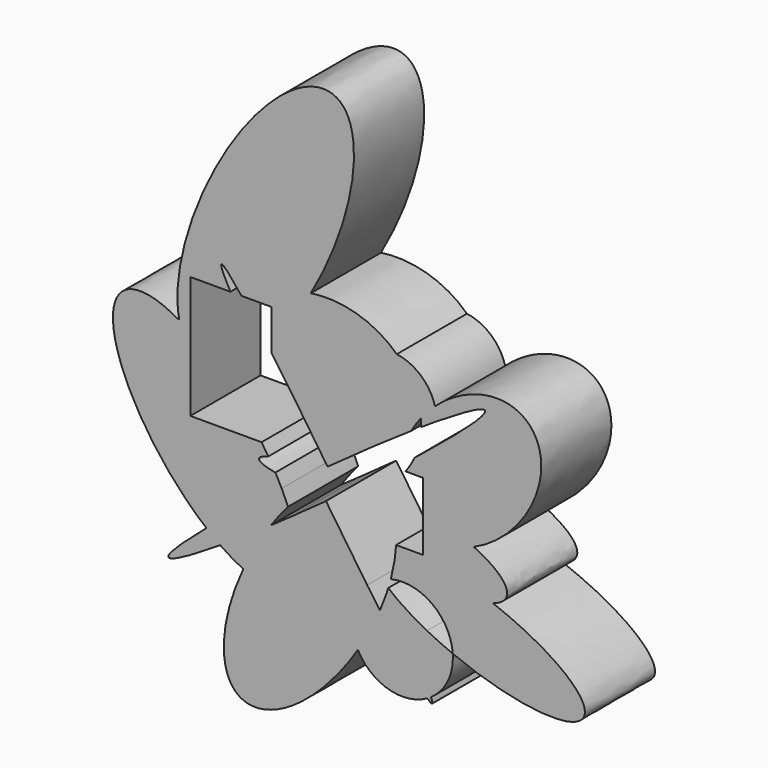
from build123d import *

# Parameters (mm, degrees)
F1_DEPTH = 25.4


with BuildPart() as f1:
    # F0 (on Front) → F1 (new body)
    with BuildSketch(Plane.XZ):
        with BuildLine():
            add(Edge.make_bspline(
                [(45.8203554153, 33.5917845368), (45.0022458665, 34.7077142445), (31.8173356612, 26.2858225604)],
                knots=[0, 0, 0, 0.7594774283, 0.7594774283, 0.7594774283], degree=2, weights=[1, 0.9287615201, 1]))
            add(Edge.make_bspline(
                [(27.3617833259, 16.4981773489), (46.9088457887, 32.1070460372), (45.8203554153, 33.5917845368)],
                knots=[5.3068864394, 5.3068864394, 5.3068864394, 6.2831853072, 6.2831853072, 6.2831853072], degree=2, weights=[1, 0.8832022716, 1]))
            ThreePointArc((27.3617833259, 16.4981773489), (26.7925594138, 16.018335264), (26.1974304469, 15.5710257499))
            add(Edge.make_bspline(
                [(25.4277634221, 14.9609239442), (25.8152568038, 15.2675479355), (26.1974304469, 15.5710257499)],
                knots=[5.2553125297, 5.2553125297, 5.2553125297, 5.2756140881, 5.2756140881, 5.2756140881], degree=2, weights=[1, 0.9999484813, 1]))
            add(Edge.make_bspline(
                [(22.8009598, 10.6078237295), (24.3757593145, 12.6658268523), (25.4277634221, 14.9609239442)],
                knots=[5.6974649671, 5.6974649671, 5.6974649671, 5.9049472791, 5.9049472791, 5.9049472791], degree=2, weights=[1, 0.9946237106, 1]))
            Line((22.8009598, 10.6078237295), (27.9194250515, 10.6078237295))
            Line((27.9194250515, 10.6078237295), (27.9194250515, 2.612153982))
            add(Edge.make_bspline(
                [(42.5681866332, -2.2064455908), (36.1588180882, 0.7967034367), (27.9194250515, 2.612153982)],
                knots=[4.100331974, 4.100331974, 4.100331974, 4.7123889804, 4.7123889804, 4.7123889804], degree=2, weights=[1, 0.9535375956, 1]))
            add(Edge.make_bspline(
                [(42.5681866332, -2.2064455908), (68.5092164722, 9.1113543374), (61.2810738369, 29.8314853108), (54.0529312017, 50.5516162842), (31.3436920597, 29.9695931798)],
                knots=[1.0154255647, 1.0154255647, 1.0154255647, 2.8116832787, 2.8116832787, 4.6079409928, 4.6079409928, 4.6079409928], degree=2, weights=[1, 0.6230745959, 1, 0.6230745959, 1]))
            ThreePointArc((31.3436920597, 29.9695931798), (31.6991014685, 28.2230114612), (31.818281754, 26.4446246621))
            ThreePointArc((31.818281754, 26.4446246621), (31.8180452287, 26.3652222021), (31.8173356612, 26.2858225604))
        make_face()
        with BuildLine():
            add(Edge.make_bspline(
                [(31.8173356612, 26.2858225604), (29.7087674376, 24.9389697635), (27.3591228229, 23.3897458368)],
                knots=[0.7594774283, 0.7594774283, 0.7594774283, 0.88695804, 0.88695804, 0.88695804], degree=2, weights=[1, 0.9979692744, 1]))
            ThreePointArc((31.8173356612, 26.2858225604), (31.8180452287, 26.3652222021), (31.818281754, 26.4446246621))
            ThreePointArc((31.818281754, 26.4446246621), (31.6991014685, 28.2230114612), (31.3436920597, 29.9695931798))
            add(Edge.make_bspline(
                [(31.3436920597, 29.9695931798), (29.127209402, 27.9607325135), (27.2737656718, 25.6216142163)],
                knots=[4.6079409928, 4.6079409928, 4.6079409928, 4.8517722932, 4.8517722932, 4.8517722932], degree=2, weights=[1, 0.9925774876, 1]))
            add(Edge.make_bspline(
                [(27.3591228229, 23.3897458368), (27.3771029612, 24.5074235361), (27.2737656718, 25.6216142163)],
                knots=[6.2692399967, 6.2692399967, 6.2692399967, 6.3634166723, 6.3634166723, 6.3634166723], degree=2, weights=[1, 0.9988915491, 1]))
        make_face()
        with BuildLine():
            add(Edge.make_bspline(
                [(24.4258900399, 21.4396655249), (19.3522999068, 18.0402667084), (13.6287281969, 14.0349532948)],
                knots=[0.9644830532, 0.9644830532, 0.9644830532, 1.2243926585, 1.2243926585, 1.2243926585], degree=2, weights=[1, 0.9915677518, 1]))
            add(Edge.make_bspline(
                [(27.2737656718, 25.6216142163), (25.6764436724, 23.6057315356), (24.4258900399, 21.4396655249)],
                knots=[4.8517722932, 4.8517722932, 4.8517722932, 5.0621769645, 5.0621769645, 5.0621769645], degree=2, weights=[1, 0.9944713362, 1]))
            add(Edge.make_bspline(
                [(27.2737656718, 25.6216142163), (26.5272352216, 33.6707635098), (20.2707233171, 39.6531452692)],
                knots=[0.0802313651, 0.0802313651, 0.0802313651, 0.7364751617, 0.7364751617, 0.7364751617], degree=2, weights=[1, 0.9466492605, 1]))
            ThreePointArc((20.2707233171, 39.6531452692), (5.5888993784, 29.7895558753), (13.6287281969, 14.0349532948))
        make_face()
        with BuildLine():
            add(Edge.make_bspline(
                [(27.2737656718, 25.6216142163), (26.5272352216, 33.6707635098), (20.2707233171, 39.6531452692)],
                knots=[0.0802313651, 0.0802313651, 0.0802313651, 0.7364751617, 0.7364751617, 0.7364751617], degree=2, weights=[1, 0.9466492605, 1]))
            add(Edge.make_bspline(
                [(31.3436920597, 29.9695931798), (29.127209402, 27.9607325135), (27.2737656718, 25.6216142163)],
                knots=[4.6079409928, 4.6079409928, 4.6079409928, 4.8517722932, 4.8517722932, 4.8517722932], degree=2, weights=[1, 0.9925774876, 1]))
            ThreePointArc((31.3436920597, 29.9695931798), (27.2641221613, 36.4773248852), (20.2707233171, 39.6531452692))
        make_face()
        with BuildLine():
            add(Edge.make_bspline(
                [(13.6287281969, 14.0349532948), (7.0838211414, 9.4548754433), (0.2294065918, 4.4616935981)],
                knots=[1.2243926585, 1.2243926585, 1.2243926585, 1.5210881057, 1.5210881057, 1.5210881057], degree=2, weights=[1, 0.9890166412, 1]))
            ThreePointArc((13.6287281969, 14.0349532948), (5.5888993784, 29.7895558753), (20.2707233171, 39.6531452692))
            add(Edge.make_bspline(
                [(20.2707233171, 39.6531452692), (10.1791803478, 49.3025255478), (-4.6286050028, 47.099191748)],
                knots=[0.7364751617, 0.7364751617, 0.7364751617, 1.7407768301, 1.7407768301, 1.7407768301], degree=2, weights=[1, 0.876549368, 1]))
            add(Edge.make_bspline(
                [(-16.015967646, 31.116947061), (-9.8992808401, 37.9090035353), (-4.6286050028, 47.099191748)],
                knots=[0.9752268815, 0.9752268815, 0.9752268815, 1.4458926564, 1.4458926564, 1.4458926564], degree=2, weights=[1, 0.9724367769, 1]))
            Line((-16.015967646, 31.116947061), (-16.015967646, 28.1284831095))
            add(Edge.make_bspline(
                [(0.2294065918, 4.4616935981), (-8.5429432057, 17.6362684514), (-16.015967646, 28.1284831095)],
                knots=[1.6358646642, 1.6358646642, 1.6358646642, 2.1946369999, 2.1946369999, 2.1946369999], degree=2, weights=[1, 0.9612248932, 1]))
        make_face()
        with BuildLine():
            add(Edge.make_bspline(
                [(27.9194250515, -3.1506664095), (34.24506888, -5.8377347916), (42.5681866332, -2.2064455908)],
                knots=[0.2496437317, 0.2496437317, 0.2496437317, 1.0154255647, 1.0154255647, 1.0154255647], degree=2, weights=[1, 0.9275884564, 1]))
            add(Edge.make_bspline(
                [(42.5681866332, -2.2064455908), (36.1588180882, 0.7967034367), (27.9194250515, 2.612153982)],
                knots=[4.100331974, 4.100331974, 4.100331974, 4.7123889804, 4.7123889804, 4.7123889804], degree=2, weights=[1, 0.9535375956, 1]))
            Line((27.9194250515, 2.612153982), (27.9194250515, -3.1506664095))
        make_face()
        with BuildLine():
            add(Edge.make_bspline(
                [(48.1481771659, -14.7733514431), (60.6114634568, -10.6607338513), (42.5681866332, -2.2064455908)],
                knots=[2.6464147756, 2.6464147756, 2.6464147756, 4.100331974, 4.100331974, 4.100331974], degree=2, weights=[1, 0.7471991706, 1]))
            add(Edge.make_bspline(
                [(27.9194250515, -3.1506664095), (34.24506888, -5.8377347916), (42.5681866332, -2.2064455908)],
                knots=[0.2496437317, 0.2496437317, 0.2496437317, 1.0154255647, 1.0154255647, 1.0154255647], degree=2, weights=[1, 0.9275884564, 1]))
            Line((27.9194250515, -3.1506664095), (27.9194250515, -9.0474209258))
            Line((27.9194250515, -9.0474209258), (20.0633025551, -9.0474209258))
            add(Edge.make_bspline(
                [(20.0520318967, -9.2834088239), (20.0581258682, -9.1650412375), (20.0633025551, -9.0474209258)],
                knots=[5.6077481023, 5.6077481023, 5.6077481023, 5.6163282263, 5.6163282263, 5.6163282263], degree=2, weights=[1, 0.9999907977, 1]))
            add(Edge.make_bspline(
                [(48.1481771659, -14.7733514431), (31.0131731867, -8.3472624079), (20.0520318967, -9.2834088239)],
                knots=[4.6843470237, 4.6843470237, 4.6843470237, 5.7069995653, 5.7069995653, 5.7069995653], degree=2, weights=[1, 0.872096285, 1]))
        make_face()
        with BuildLine():
            add(Edge.make_bspline(
                [(-16.015967646, 31.116947061), (-9.8992808401, 37.9090035353), (-4.6286050028, 47.099191748)],
                knots=[0.9752268815, 0.9752268815, 0.9752268815, 1.4458926564, 1.4458926564, 1.4458926564], degree=2, weights=[1, 0.9724367769, 1]))
            add(Edge.make_bspline(
                [(-4.6286050028, 47.099191748), (-13.7135511735, 45.7473914285), (-20.0030076669, 39.9054429066)],
                knots=[1.7407768301, 1.7407768301, 1.7407768301, 2.3906652955, 2.3906652955, 2.3906652955], degree=2, weights=[1, 0.9476685319, 1]))
            Line((-20.0030076669, 39.9054429066), (-16.015967646, 39.9054429066))
            Line((-16.015967646, 39.9054429066), (-16.015967646, 31.116947061))
        make_face()
        with BuildLine():
            add(Edge.make_bspline(
                [(-4.6286050028, 47.099191748), (-13.7135511735, 45.7473914285), (-20.0030076669, 39.9054429066)],
                knots=[1.7407768301, 1.7407768301, 1.7407768301, 2.3906652955, 2.3906652955, 2.3906652955], degree=2, weights=[1, 0.9476685319, 1]))
            add(Edge.make_bspline(
                [(-4.6286050028, 47.099191748), (38.1313110798, 121.6573108374), (-7.3987256774, 98.6205502094), (-52.9287624346, 75.5837895813), (-42.6971776189, 27.8376963206)],
                knots=[1.4458926564, 1.4458926564, 1.4458926564, 3.6378012106, 3.6378012106, 5.8297097647, 5.8297097647, 5.8297097647], degree=2, weights=[1, 0.4571979774, 1, 0.4571979774, 1]))
            add(Edge.make_bspline(
                [(-39.4985225095, 25.8041057378), (-41.1204876782, 26.9215450814), (-42.6971776189, 27.8376963206)],
                knots=[2.2122325333, 2.2122325333, 2.2122325333, 2.3345941002, 2.3345941002, 2.3345941002], degree=2, weights=[1, 0.9981290396, 1]))
            Line((-39.4985225095, 25.8041057378), (-39.4985225095, 39.9054429066))
            Line((-39.4985225095, 39.9054429066), (-27.9023185521, 39.9054429066))
            add(Edge.make_bspline(
                [(-24.704787544, 39.9054429066), (-35.161982244, 53.3446744764), (-27.9023185521, 39.9054429066)],
                knots=[2.5839802175, 2.5839802175, 2.5839802175, 3.6356338592, 3.6356338592, 3.6356338592], degree=2, weights=[1, 0.8649092325, 1]))
            Line((-24.704787544, 39.9054429066), (-20.0030076669, 39.9054429066))
        make_face()
        with BuildLine():
            add(Edge.make_bspline(
                [(36.5235132661, -31.4342713138), (68.0522139757, -44.4073711638), (74.1822497641, -35.6215657456), (80.3122855526, -26.8357603275), (48.1481771659, -14.7733514431)],
                knots=[1.4390531026, 1.4390531026, 1.4390531026, 3.0617000631, 3.0617000631, 4.6843470237, 4.6843470237, 4.6843470237], degree=2, weights=[1, 0.6885392496, 1, 0.6885392496, 1]))
            add(Edge.make_bspline(
                [(19.6684488678, -12.9603483254), (38.008586656, -18.1191991859), (48.1481771659, -14.7733514431)],
                knots=[1.3936057048, 1.3936057048, 1.3936057048, 2.6464147756, 2.6464147756, 2.6464147756], degree=2, weights=[1, 0.81014053, 1]))
            add(Edge.make_bspline(
                [(18.5457592839, -18.2408692185), (19.2797157759, -15.5007549225), (19.6684488678, -12.9603483254)],
                knots=[5.3107712279, 5.3107712279, 5.3107712279, 5.4800881031, 5.4800881031, 5.4800881031], degree=2, weights=[1, 0.9964186142, 1]))
            ThreePointArc((18.5457592839, -18.2408692185), (23.921939098, -17.9905483462), (29.0244668722, -19.7023252727))
            Line((29.0244668722, -19.7023252727), (29.0244668722, -19.3006247282))
            Line((29.0244668722, -19.3006247282), (36.5235132661, -19.3006247282))
            Line((36.5235132661, -19.3006247282), (36.5235132661, -31.4342713138))
        make_face()
        with BuildLine():
            add(Edge.make_bspline(
                [(19.6684488678, -12.9603483254), (38.008586656, -18.1191991859), (48.1481771659, -14.7733514431)],
                knots=[1.3936057048, 1.3936057048, 1.3936057048, 2.6464147756, 2.6464147756, 2.6464147756], degree=2, weights=[1, 0.81014053, 1]))
            add(Edge.make_bspline(
                [(48.1481771659, -14.7733514431), (31.0131731867, -8.3472624079), (20.0520318967, -9.2834088239)],
                knots=[4.6843470237, 4.6843470237, 4.6843470237, 5.7069995653, 5.7069995653, 5.7069995653], degree=2, weights=[1, 0.872096285, 1]))
            add(Edge.make_bspline(
                [(19.6684488678, -12.9603483254), (19.9612395165, -11.0469344399), (20.0520318967, -9.2834088239)],
                knots=[5.4800881031, 5.4800881031, 5.4800881031, 5.6077481023, 5.6077481023, 5.6077481023], degree=2, weights=[1, 0.9979635571, 1]))
        make_face()
        with BuildLine():
            add(Edge.make_bspline(
                [(-42.6971776189, 27.8376963206), (-41.7917660981, 23.6125578216), (-39.4985225095, 21.4797442589)],
                knots=[5.8297097647, 5.8297097647, 5.8297097647, 6.1706460883, 6.1706460883, 6.1706460883], degree=2, weights=[1, 0.9855054542, 1]))
            add(Edge.make_bspline(
                [(-42.6971776189, 27.8376963206), (-65.0594041251, 40.8314885657), (-61.617765562, 18.698279989), (-58.1761269989, -3.4349285878), (-34.8522512513, -22.6130957599)],
                knots=[2.3345941002, 2.3345941002, 2.3345941002, 3.7652238576, 3.7652238576, 5.195853615, 5.195853615, 5.195853615], degree=2, weights=[1, 0.7548867638, 1, 0.7548867638, 1]))
            add(Edge.make_bspline(
                [(-13.0540085637, -5.3985472511), (-26.0436718338, -15.2281985886), (-34.8522512513, -22.6130957599)],
                knots=[1.8146901295, 1.8146901295, 1.8146901295, 2.3892000177, 2.3892000177, 2.3892000177], degree=2, weights=[1, 0.959025219, 1]))
            add(Edge.make_bspline(
                [(-13.0540085637, -5.3985472511), (-13.9022755767, -3.6801843393), (-14.8790648966, -1.9394715773)],
                knots=[1.0851219209, 1.0851219209, 1.0851219209, 1.1953868888, 1.1953868888, 1.1953868888], degree=2, weights=[1, 0.9984805895, 1]))
            add(Edge.make_bspline(
                [(-16.9237150987, 1.5023748009), (-23.9515201672, -0.3291892173), (-14.8790648966, -1.9394715773)],
                knots=[2.6132943938, 2.6132943938, 2.6132943938, 3.850118897, 3.850118897, 3.850118897], degree=2, weights=[1, 0.814799968, 1]))
            add(Edge.make_bspline(
                [(-16.9237150987, 1.5023748009), (-17.8639341295, 3.002060039), (-18.8816339462, 4.4882228171)],
                knots=[1.3043596871, 1.3043596871, 1.3043596871, 1.399309982, 1.399309982, 1.399309982], degree=2, weights=[1, 0.9988732668, 1]))
            Line((-18.8816339462, 4.4882228171), (-39.4985225095, 4.4882228171))
            Line((-39.4985225095, 4.4882228171), (-39.4985225095, 21.4797442589))
        make_face()
        with BuildLine():
            add(Edge.make_bspline(
                [(-39.4985225095, 25.8041057378), (-41.1204876782, 26.9215450814), (-42.6971776189, 27.8376963206)],
                knots=[2.2122325333, 2.2122325333, 2.2122325333, 2.3345941002, 2.3345941002, 2.3345941002], degree=2, weights=[1, 0.9981290396, 1]))
            add(Edge.make_bspline(
                [(-42.6971776189, 27.8376963206), (-41.7917660981, 23.6125578216), (-39.4985225095, 21.4797442589)],
                knots=[5.8297097647, 5.8297097647, 5.8297097647, 6.1706460883, 6.1706460883, 6.1706460883], degree=2, weights=[1, 0.9855054542, 1]))
            Line((-39.4985225095, 21.4797442589), (-39.4985225095, 25.8041057378))
        make_face()
        with BuildLine():
            add(Edge.make_bspline(
                [(36.4855474922, -31.4186409051), (36.5045274022, -31.4264592092), (36.5235132661, -31.4342713138)],
                knots=[1.4377846251, 1.4377846251, 1.4377846251, 1.4390531026, 1.4390531026, 1.4390531026], degree=2, weights=[1, 0.9999997989, 1]))
            Line((36.5235132661, -31.4342713138), (36.5235132661, -19.3006247282))
            Line((36.5235132661, -19.3006247282), (29.0244668722, -19.3006247282))
            Line((29.0244668722, -19.3006247282), (29.0244668722, -19.7023252727))
            ThreePointArc((29.0244668722, -19.7023252727), (34.2351502952, -24.6179114271), (36.4855474922, -31.4186409051))
        make_face()
        with BuildLine():
            Line((36.5235132661, -32.4716232151), (36.5235132661, -31.4342713138))
            add(Edge.make_bspline(
                [(36.4855474922, -31.4186409051), (36.5045274022, -31.4264592092), (36.5235132661, -31.4342713138)],
                knots=[1.4377846251, 1.4377846251, 1.4377846251, 1.4390531026, 1.4390531026, 1.4390531026], degree=2, weights=[1, 0.9999997989, 1]))
            ThreePointArc((36.4855474922, -31.4186409051), (36.5140187399, -31.9447899528), (36.5235132661, -32.4716232151))
        make_face()
        with BuildLine():
            add(Edge.make_bspline(
                [(-34.8522512513, -22.6130957599), (-32.8339058201, -24.2726898389), (-30.8406422457, -25.6594227384)],
                knots=[5.195853615, 5.195853615, 5.195853615, 5.3459376873, 5.3459376873, 5.3459376873], degree=2, weights=[1, 0.9971856675, 1]))
            add(Edge.make_bspline(
                [(-34.8522512513, -22.6130957599), (-63.7942204242, -46.8773336289), (-30.8406422457, -25.6594227384)],
                knots=[2.3892000177, 2.3892000177, 2.3892000177, 3.9302294866, 3.9302294866, 3.9302294866], degree=2, weights=[1, 0.7175522497, 1]))
        make_face()
        with BuildLine():
            add(Edge.make_bspline(
                [(-13.0540085637, -5.3985472511), (-26.0436718338, -15.2281985886), (-34.8522512513, -22.6130957599)],
                knots=[1.8146901295, 1.8146901295, 1.8146901295, 2.3892000177, 2.3892000177, 2.3892000177], degree=2, weights=[1, 0.959025219, 1]))
            add(Edge.make_bspline(
                [(-34.8522512513, -22.6130957599), (-32.8339058201, -24.2726898389), (-30.8406422457, -25.6594227384)],
                knots=[5.195853615, 5.195853615, 5.195853615, 5.3459376873, 5.3459376873, 5.3459376873], degree=2, weights=[1, 0.9971856675, 1]))
            add(Edge.make_bspline(
                [(-30.8406422457, -25.6594227384), (-24.3774695719, -21.4979619974), (-16.2090617579, -15.8326913499)],
                knots=[3.9302294866, 3.9302294866, 3.9302294866, 4.3064803901, 4.3064803901, 4.3064803901], degree=2, weights=[1, 0.9823565347, 1]))
            add(Edge.make_bspline(
                [(-11.2147955122, -9.4684555926), (-13.814645454, -12.4554006933), (-16.2090617579, -15.8326913499)],
                knots=[1.2097228758, 1.2097228758, 1.2097228758, 1.4243616773, 1.4243616773, 1.4243616773], degree=2, weights=[1, 0.9942467981, 1]))
            add(Edge.make_bspline(
                [(-11.2147955122, -9.4684555926), (-12.0332734703, -7.4662845325), (-13.0540085637, -5.3985472511)],
                knots=[0.9524982213, 0.9524982213, 0.9524982213, 1.0851219209, 1.0851219209, 1.0851219209], degree=2, weights=[1, 0.9978021748, 1]))
        make_face()
        with BuildLine():
            Line((29.0244668722, -32.4716232151), (36.5235132661, -32.4716232151))
            ThreePointArc((36.5235132661, -32.4716232151), (36.5140187399, -31.9447899528), (36.4855474922, -31.4186409051))
            add(Edge.make_bspline(
                [(29.0244668722, -27.9820193715), (32.5634834189, -29.8030437011), (36.4855474922, -31.4186409051)],
                knots=[1.1771482335, 1.1771482335, 1.1771482335, 1.4377846251, 1.4377846251, 1.4377846251], degree=2, weights=[1, 0.9915205945, 1]))
            Line((29.0244668722, -27.9820193715), (29.0244668722, -32.4716232151))
        make_face()
        with BuildLine():
            ThreePointArc((30.1823906258, -44.5223607668), (34.8414819177, -39.2802594934), (36.5235132661, -32.4716232151))
            Line((36.5235132661, -32.4716232151), (29.0244668722, -32.4716232151))
            Line((29.0244668722, -32.4716232151), (29.0244668722, -27.9820193715))
            add(Edge.make_bspline(
                [(17.8199822519, -20.7297439411), (22.0594942904, -24.3981467449), (29.0244668722, -27.9820193715)],
                knots=[0.6722826534, 0.6722826534, 0.6722826534, 1.1771482335, 1.1771482335, 1.1771482335], degree=2, weights=[1, 0.9683076732, 1]))
            add(Edge.make_bspline(
                [(17.3686720636, -22.1087807776), (17.6040035791, -21.4157948308), (17.8199822519, -20.7297439411)],
                knots=[5.1931143833, 5.1931143833, 5.1931143833, 5.2346246938, 5.2346246938, 5.2346246938], degree=2, weights=[1, 0.9997846195, 1]))
            add(Edge.make_bspline(
                [(30.1823906258, -44.5223607668), (28.0925160512, -39.3647651068), (17.3686720636, -22.1087807776)],
                knots=[0.2336582418, 0.2336582418, 0.2336582418, 1.0392848132, 1.0392848132, 1.0392848132], degree=2, weights=[1, 0.9199618055, 1]))
        make_face()
        with BuildLine():
            add(Edge.make_bspline(
                [(-30.8406422457, -25.6594227384), (-24.3774695719, -21.4979619974), (-16.2090617579, -15.8326913499)],
                knots=[3.9302294866, 3.9302294866, 3.9302294866, 4.3064803901, 4.3064803901, 4.3064803901], degree=2, weights=[1, 0.9823565347, 1]))
            add(Edge.make_bspline(
                [(-30.8406422457, -25.6594227384), (-27.3737021802, -28.0714067384), (-24.1653904027, -29.5394703419)],
                knots=[5.3459376873, 5.3459376873, 5.3459376873, 5.6059986233, 5.6059986233, 5.6059986233], degree=2, weights=[1, 0.9915579436, 1]))
            add(Edge.make_bspline(
                [(-16.2090617579, -15.8326913499), (-20.8576528395, -22.3894639545), (-24.1653904027, -29.5394703419)],
                knots=[1.4243616773, 1.4243616773, 1.4243616773, 1.8367303918, 1.8367303918, 1.8367303918], degree=2, weights=[1, 0.9788192017, 1]))
        make_face()
        with BuildLine():
            ThreePointArc((29.1337805908, -45.1793340322), (29.6650387913, -44.8619455337), (30.1823906258, -44.5223607668))
            add(Edge.make_bspline(
                [(30.1823906258, -44.5223607668), (28.0925160512, -39.3647651068), (17.3686720636, -22.1087807776)],
                knots=[0.2336582418, 0.2336582418, 0.2336582418, 1.0392848132, 1.0392848132, 1.0392848132], degree=2, weights=[1, 0.9199618055, 1]))
            add(Edge.make_bspline(
                [(15.3937258873, -27.2532616055), (16.504603736, -24.6532219964), (17.3686720636, -22.1087807776)],
                knots=[5.0409729539, 5.0409729539, 5.0409729539, 5.1931143833, 5.1931143833, 5.1931143833], degree=2, weights=[1, 0.9971080182, 1]))
            add(Edge.make_bspline(
                [(15.3937258873, -27.2532616055), (25.5601514085, -41.5785265748), (29.1337805908, -45.1793340322)],
                knots=[5.312512453, 5.312512453, 5.312512453, 6.0471594912, 6.0471594912, 6.0471594912], degree=2, weights=[1, 0.9332918619, 1]))
        make_face()
        with BuildLine():
            add(Edge.make_bspline(
                [(30.497789383, -46.1149960757), (30.758000732, -45.9429073498), (30.1823906258, -44.5223607668)],
                knots=[0, 0, 0, 0.2336582418, 0.2336582418, 0.2336582418], degree=2, weights=[1, 0.9931832371, 1]))
            ThreePointArc((30.1823906258, -44.5223607668), (29.6650387913, -44.8619455337), (29.1337805908, -45.1793340322))
            add(Edge.make_bspline(
                [(29.1337805908, -45.1793340322), (30.2349168905, -46.2888447278), (30.497789383, -46.1149960757)],
                knots=[6.0471594912, 6.0471594912, 6.0471594912, 6.2831853072, 6.2831853072, 6.2831853072], degree=2, weights=[1, 0.9930445548, 1]))
        make_face()
        with BuildLine():
            add(Edge.make_bspline(
                [(-16.2090617579, -15.8326913499), (-13.3384099692, -13.8417257066), (-10.3488784057, -11.727394442)],
                knots=[4.3064803901, 4.3064803901, 4.3064803901, 4.4400907209, 4.4400907209, 4.4400907209], degree=2, weights=[1, 0.9977693647, 1]))
            add(Edge.make_bspline(
                [(-16.2090617579, -15.8326913499), (-20.8576528395, -22.3894639545), (-24.1653904027, -29.5394703419)],
                knots=[1.4243616773, 1.4243616773, 1.4243616773, 1.8367303918, 1.8367303918, 1.8367303918], degree=2, weights=[1, 0.9788192017, 1]))
            add(Edge.make_bspline(
                [(-24.1653904027, -29.5394703419), (-15.5255063773, -33.4929200553), (-11.1972540617, -30.0557762384)],
                knots=[5.6059986233, 5.6059986233, 5.6059986233, 6.2831853072, 6.2831853072, 6.2831853072], degree=2, weights=[1, 0.943222835, 1]))
            add(Edge.make_bspline(
                [(-11.1972540617, -30.0557762384), (-5.4365440591, -25.4810917417), (-10.3488784057, -11.727394442)],
                knots=[0, 0, 0, 0.8765952697, 0.8765952697, 0.8765952697], degree=2, weights=[1, 0.9054754564, 1]))
        make_face()
        with BuildLine():
            add(Edge.make_bspline(
                [(-24.1653904027, -29.5394703419), (-15.5255063773, -33.4929200553), (-11.1972540617, -30.0557762384)],
                knots=[5.6059986233, 5.6059986233, 5.6059986233, 6.2831853072, 6.2831853072, 6.2831853072], degree=2, weights=[1, 0.943222835, 1]))
            add(Edge.make_bspline(
                [(-24.1653904027, -29.5394703419), (-37.8007759749, -59.0137233836), (-23.3456406227, -63.2897768311), (-8.8905052706, -67.5658302786), (9.0002056927, -39.35036855)],
                knots=[1.8367303918, 1.8367303918, 1.8367303918, 3.2597992013, 3.2597992013, 4.6828680109, 4.6828680109, 4.6828680109], degree=2, weights=[1, 0.7573608068, 1, 0.7573608068, 1]))
            ThreePointArc((9.0002056927, -39.35036855), (7.4548687575, -30.2237401578), (11.7000636931, -21.9980649872))
            add(Edge.make_bspline(
                [(-0.2294065918, -4.4616935981), (5.9711704809, -13.773903971), (11.7000636931, -21.9980649872)],
                knots=[4.7774573178, 4.7774573178, 4.7774573178, 5.1775973198, 5.1775973198, 5.1775973198], degree=2, weights=[1, 0.9800526684, 1]))
            add(Edge.make_bspline(
                [(-10.3488784057, -11.727394442), (-5.3552017139, -8.1956415466), (-0.2294065918, -4.4616935981)],
                knots=[4.4400907209, 4.4400907209, 4.4400907209, 4.6626807592, 4.6626807592, 4.6626807592], degree=2, weights=[1, 0.9938130995, 1]))
            add(Edge.make_bspline(
                [(-11.1972540617, -30.0557762384), (-5.4365440591, -25.4810917417), (-10.3488784057, -11.727394442)],
                knots=[0, 0, 0, 0.8765952697, 0.8765952697, 0.8765952697], degree=2, weights=[1, 0.9054754564, 1]))
        make_face()
        with BuildLine():
            ThreePointArc((9.0002056927, -39.35036855), (17.8361921987, -46.5161070323), (29.1337805908, -45.1793340322))
            add(Edge.make_bspline(
                [(15.3937258873, -27.2532616055), (25.5601514085, -41.5785265748), (29.1337805908, -45.1793340322)],
                knots=[5.312512453, 5.312512453, 5.312512453, 6.0471594912, 6.0471594912, 6.0471594912], degree=2, weights=[1, 0.9332918619, 1]))
            add(Edge.make_bspline(
                [(9.0002056927, -39.35036855), (12.7557765957, -33.4274531723), (15.3937258873, -27.2532616055)],
                knots=[4.6828680109, 4.6828680109, 4.6828680109, 5.0409729539, 5.0409729539, 5.0409729539], degree=2, weights=[1, 0.9840128867, 1]))
        make_face()
        with BuildLine():
            ThreePointArc((11.7000636931, -21.9980649872), (7.4548687575, -30.2237401578), (9.0002056927, -39.35036855))
            add(Edge.make_bspline(
                [(9.0002056927, -39.35036855), (12.7557765957, -33.4274531723), (15.3937258873, -27.2532616055)],
                knots=[4.6828680109, 4.6828680109, 4.6828680109, 5.0409729539, 5.0409729539, 5.0409729539], degree=2, weights=[1, 0.9840128867, 1]))
            add(Edge.make_bspline(
                [(11.7000636931, -21.9980649872), (13.6087277466, -24.7380637828), (15.3937258873, -27.2532616055)],
                knots=[5.1775973198, 5.1775973198, 5.1775973198, 5.312512453, 5.312512453, 5.312512453], degree=2, weights=[1, 0.997725601, 1]))
        make_face()
    extrude(amount=F1_DEPTH)


solid = f1.part
